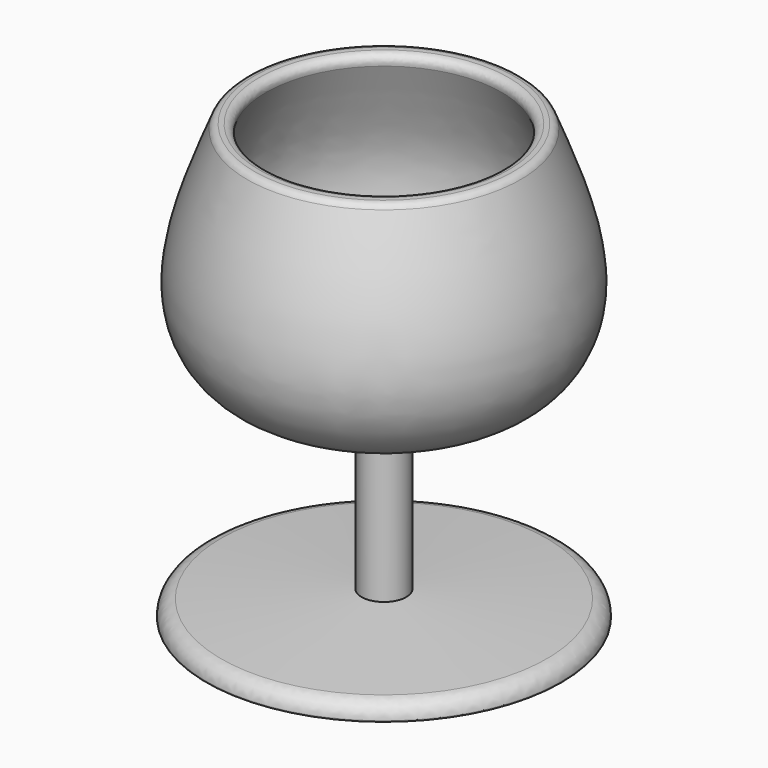
from build123d import *

# Parameters (mm, degrees)
F2_R = 2.54
F3_R = 5.08


with BuildPart() as f1:
    # F0 (on Front) → F1 (revolve)
    with BuildSketch(Plane.XZ):
        with BuildLine():
            Line((-58.8701404631, -76.7118260264), (0, -76.7118260264))
            Line((0, -76.7118260264), (0, -9.9211717024))
            add(Edge.make_bspline(
                [(-37.6542881131, 67.4774125218), (-40.3978195934, 60.8154387259), (-45.6661468924, 48.0226354844), (-51.4354204687, 30.9326939777), (-49.8782131008, 12.5215814648), (-44.1796398329, -2.071851824), (-25.5674726522, -5.789733912), (-12.8384212429, -9.6824466373), (-4.2143698933, -9.8428072596), (0, -9.9211717024)],
                knots=[0, 0, 0, 0, 0.1626225576, 0.3122795805, 0.462739555, 0.5957270276, 0.7438612356, 0.8748310448, 1, 1, 1, 1], degree=3))
            Line((-37.6542881131, 67.4774125218), (-44.72624138, 67.4774125218))
            add(Edge.make_bspline(
                [(-7.4020461179, -15.0286918506), (-21.8224374661, -13.2705739323), (-48.4542491652, -10.023653359), (-62.9581988318, 22.1425649738), (-51.323314142, 51.0733983768), (-44.72624138, 67.4774125218)],
                knots=[0, 0, 0, 0, 0.3383257051, 0.6248253778, 1, 1, 1, 1], degree=3))
            Line((-7.4020461179, -15.0286918506), (-7.4020461179, -68.4612169862))
            Line((-7.4020461179, -68.4612169862), (-58.8701404631, -71.6043114662))
            Line((-58.8701404631, -71.6043114662), (-58.8701404631, -76.7118260264))
        make_face()
    revolve(axis=Axis((0, 0, -43.3164988644), (0, 0, -1)))

    # F2
    f2_edges = [f1.edges().sort_by_distance(p)[0] for p in [
        (44.726241, 0, 67.477413),
        (37.654288, 0, 67.477413),
    ]]
    fillet(f2_edges, radius=F2_R)

    # F3
    f3_edges = [f1.edges().sort_by_distance(p)[0] for p in [
        (58.87014, 0, -71.604311),
    ]]
    fillet(f3_edges, radius=F3_R)


solid = f1.part
